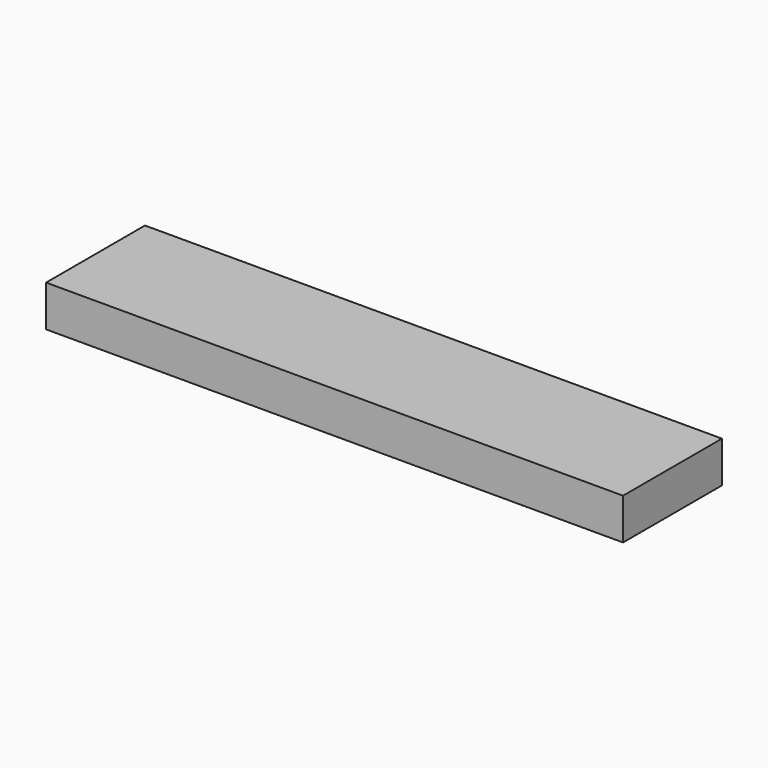
from build123d import *

# Parameters (mm, degrees)
BEAM_W     = 140
BEAM_H     = 30
BEAM_DEPTH = 10


with BuildPart() as part:
    # Beam → Beam (new body)
    with BuildSketch(Plane.XY):
        with Locations((70, 15)):
            Rectangle(BEAM_W, BEAM_H)
    extrude(amount=BEAM_DEPTH)


solid = part.part
